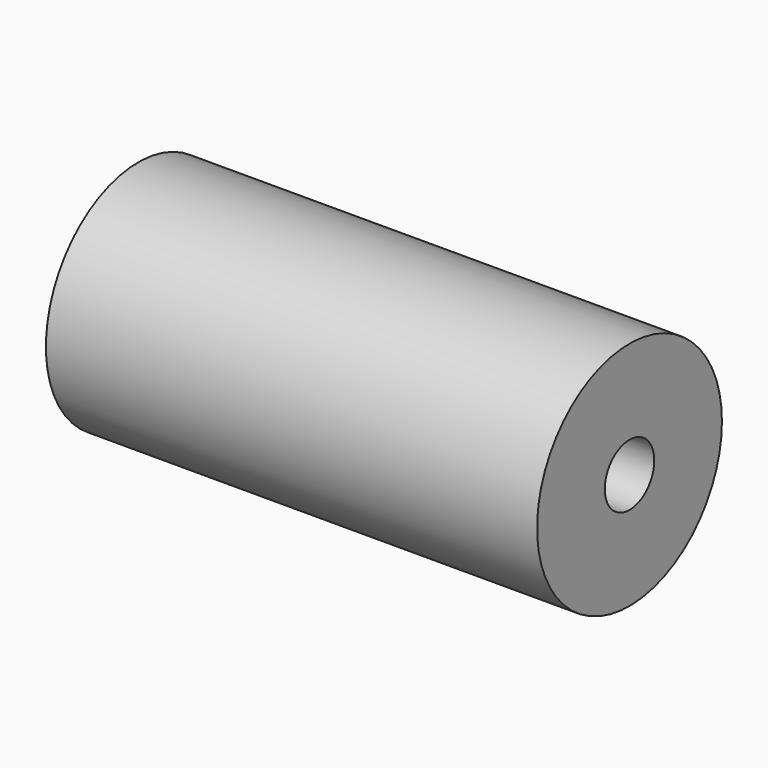
from build123d import *

# Parameters (mm, degrees)
F0_R     = 12.7
F1_DEPTH = 54
F3_D     = 6.8


with BuildPart() as f1:
    # F0 (on Right) → F1 (new body)
    with BuildSketch(Plane.YZ):
        Circle(F0_R)
    extrude(amount=F1_DEPTH)

    # F3 (through all)
    with Locations(Plane(origin=(0, 0, 0), x_dir=(0, 1, 0), z_dir=(-1, 0, 0))):
        with Locations((0, 0)):
            Hole(F3_D / 2)


solid = f1.part
